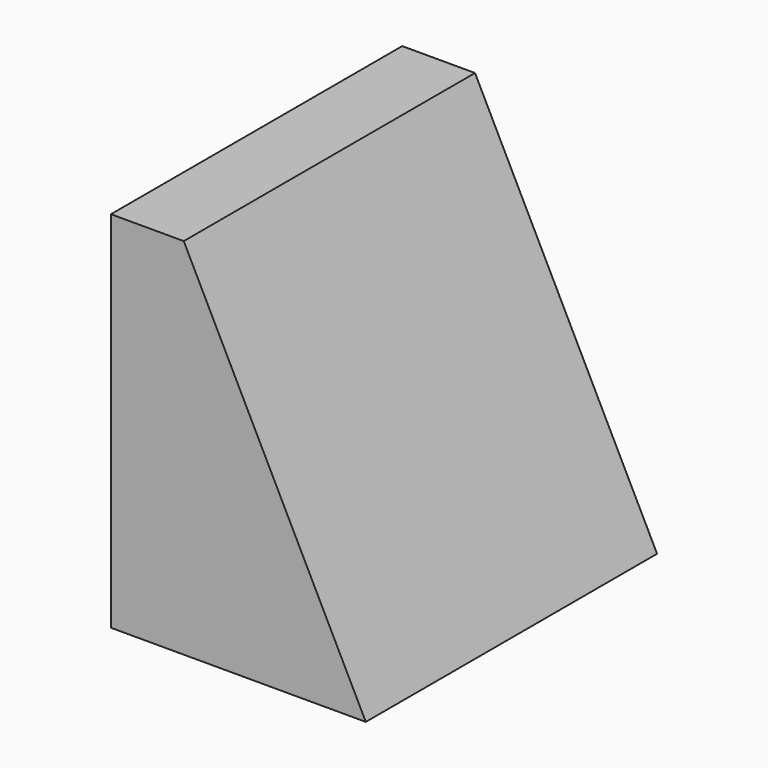
from build123d import *

# Parameters (mm, degrees)
F0_W     = 127
F0_H     = 127
F1_DEPTH = 127
F4_DEPTH = 127


with BuildPart() as f1:
    # F0 (on Top) → F1 (new body)
    with BuildSketch(Plane.XY):
        Rectangle(F0_W, F0_H)
    extrude(amount=F1_DEPTH)

    # F3 (on face) → F4 (cut)
    with BuildSketch(Plane.XZ.offset(63.5)):
        Polygon((63.5, 127), (-38.1, 127), (25.4, 0), (63.5, 0), align=None)
    extrude(amount=-F4_DEPTH, mode=Mode.SUBTRACT)


solid = f1.part
